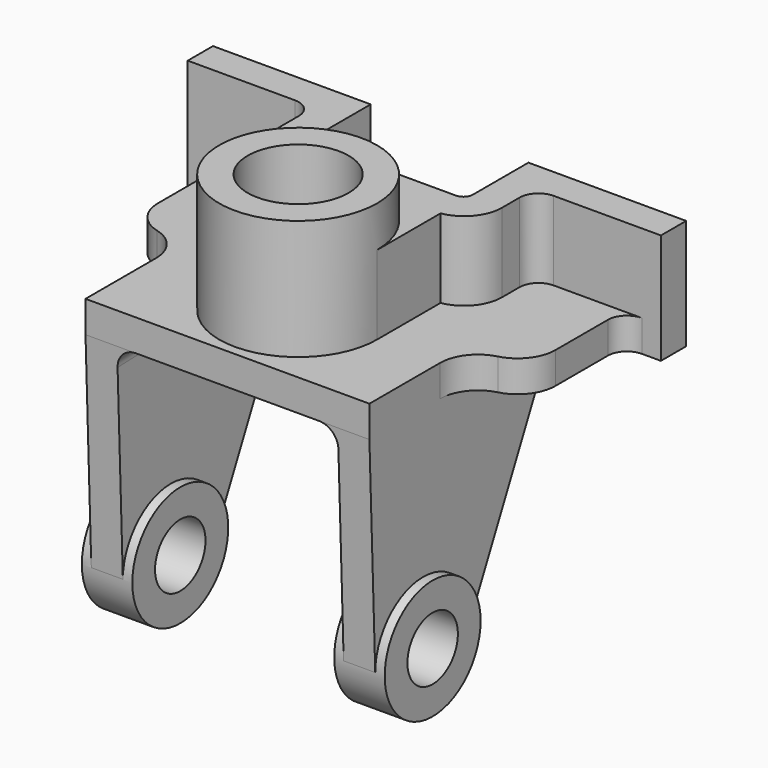
from build123d import *

# Parameters (mm, degrees)
F1_DEPTH  = 100
F5_DEPTH  = 250
F7_DEPTH  = 130
F8_R      = 160
F9_DEPTH  = 480.001
F11_DEPTH = 900
F13_DEPTH = 896.216686194
F15_R     = 190
F15_R_2   = 100
F16_DEPTH = 160
F17_DEPTH = 1230.001
F19_R     = 190
F19_R_2   = 100
F20_DEPTH = 160


with BuildPart() as f1:
    # F0 (on Top) → F1 (new body)
    with BuildSketch(Plane.XY):
        with BuildLine():
            Line((750, 440), (-750, 440))
            Line((-750, 440), (-750, 340))
            Line((-750, 340), (-690, 340))
            ThreePointArc((-690, 340), (-647.5735931288, 322.4264068712), (-630, 280))
            Line((-630, 280), (-630, 72.3790007724))
            ThreePointArc((-630, 72.3790007724), (-604.8683298051, -1.1056915111), (-540, -43.8104996138))
            ThreePointArc((-540, -43.8104996138), (-475.1316701949, -86.5153077165), (-450, -160))
            Line((-450, -160), (-450, -440))
            Line((-450, -440), (450, -440))
            Line((450, -440), (450, -160))
            ThreePointArc((450, -160), (475.1316701949, -86.5153077165), (540, -43.8104996138))
            ThreePointArc((540, -43.8104996138), (604.8683298051, -1.1056915111), (630, 72.3790007724))
            Line((630, 72.3790007724), (630, 280))
            ThreePointArc((630, 280), (647.5735931288, 322.4264068712), (690, 340))
            Line((690, 340), (750, 340))
            Line((750, 340), (750, 440))
        make_face()
    extrude(amount=-F1_DEPTH)

    # F4 (on face) → F5 (join)
    with BuildSketch(Plane.XY):
        with BuildLine():
            Line((410, 340), (750, 340))
            Line((750, 340), (750, 440))
            Line((750, 440), (250, 440))
            Line((250, 440), (250, 220))
            ThreePointArc((250, 220), (241.2132034356, 198.7867965644), (220, 190))
            Line((220, 190), (0, 190))
            Line((0, 190), (-220, 190))
            ThreePointArc((-220, 190), (-241.2132034356, 198.7867965644), (-250, 220))
            Line((-250, 220), (-250, 440))
            Line((-250, 440), (-750, 440))
            Line((-750, 440), (-750, 340))
            Line((-750, 340), (-410, 340))
            ThreePointArc((-410, 340), (-367.5735931288, 322.4264068712), (-350, 280))
            Line((-350, 280), (-350, 210))
            ThreePointArc((-350, 210), (-321.6515138991, 132.5403330759), (-250, 91.678404338))
            Line((-250, 91.678404338), (-250, -160))
            ThreePointArc((-250, -160), (0, -410), (250, -160))
            Line((250, -160), (250, 91.678404338))
            ThreePointArc((250, 91.678404338), (321.6515138991, 132.5403330759), (350, 210))
            Line((350, 210), (350, 280))
            ThreePointArc((350, 280), (367.5735931288, 322.4264068712), (410, 340))
        make_face()
    extrude(amount=F5_DEPTH)

    # F6 (on face) → F7 (join)
    with BuildSketch(Plane.XY.offset(250)):
        with BuildLine():
            ThreePointArc((-250, -160), (0, -410), (250, -160))
            ThreePointArc((250, -160), (0, 90), (-250, -160))
        make_face()
    extrude(amount=F7_DEPTH)

    # F8 (on face) → F9 (cut, through all)
    with BuildSketch(Plane.XY.offset(380)):
        with Locations((0, -160)):
            Circle(F8_R)
    extrude(amount=-F9_DEPTH, mode=Mode.SUBTRACT)

    # F10 (on offset) → F11 (join)
    with BuildSketch(Plane.YZ.offset(450)):
        with BuildLine():
            Line((440, -100), (-440, -100))
            Line((-440, -100), (-416.9663321763, -759.5979458326))
            Line((-416.9663321763, -759.5979458326), (-36.9663321763, -760))
            Line((-36.9663321763, -760), (215.1048871839, -240.8112266237))
            ThreePointArc((215.1048871839, -240.8112266237), (307.3297195, -138.1071103788), (440, -100))
        make_face()
    extrude(amount=-F11_DEPTH)

    # F12 (on face) → F13 (cut, through all)
    with BuildSketch(Plane(origin=(0, -442.9519147444, -15.4682217107), x_dir=(1, 0, 0), z_dir=(0, -0.999390827, -0.0348994967))):
        with BuildLine():
            Line((-350, -144.5833041528), (-350, -864.5833041528))
            Line((-350, -864.5833041528), (350, -864.5833041528))
            Line((350, -864.5833041528), (350, -144.5833041528))
            ThreePointArc((350, -144.5833041528), (332.4264068712, -102.1568972816), (290, -84.5833041528))
            Line((290, -84.5833041528), (-290, -84.5833041528))
            ThreePointArc((-290, -84.5833041528), (-332.4264068712, -102.1568972816), (-350, -144.5833041528))
        make_face()
    extrude(amount=-F13_DEPTH, mode=Mode.SUBTRACT)

    # F15 (on offset) → F16 (join)
    with BuildSketch(Plane.YZ.offset(480)):
        with Locations((-226.9663321763, -759.7989729163)):
            Circle(F15_R)
        with Locations((-226.9663321763, -759.7989729163)):
            Circle(F15_R_2, mode=Mode.SUBTRACT)
    extrude(amount=-F16_DEPTH)

    # F15 (on offset) → F17 (cut, through all)
    with BuildSketch(Plane.YZ.offset(480)):
        with Locations((-226.9663321763, -759.7989729163)):
            Circle(F15_R_2)
    extrude(amount=-F17_DEPTH, mode=Mode.SUBTRACT)

    # F19 (on offset) → F20 (join)
    with BuildSketch(Plane(origin=(-480, 0, 0), x_dir=(0, -1, 0), z_dir=(-1, 0, 0))):
        with Locations((226.9663321763, -759.7989729163)):
            Circle(F19_R)
        with Locations((226.9663321763, -759.7989729163)):
            Circle(F19_R_2, mode=Mode.SUBTRACT)
    extrude(amount=-F20_DEPTH)


solid = f1.part
